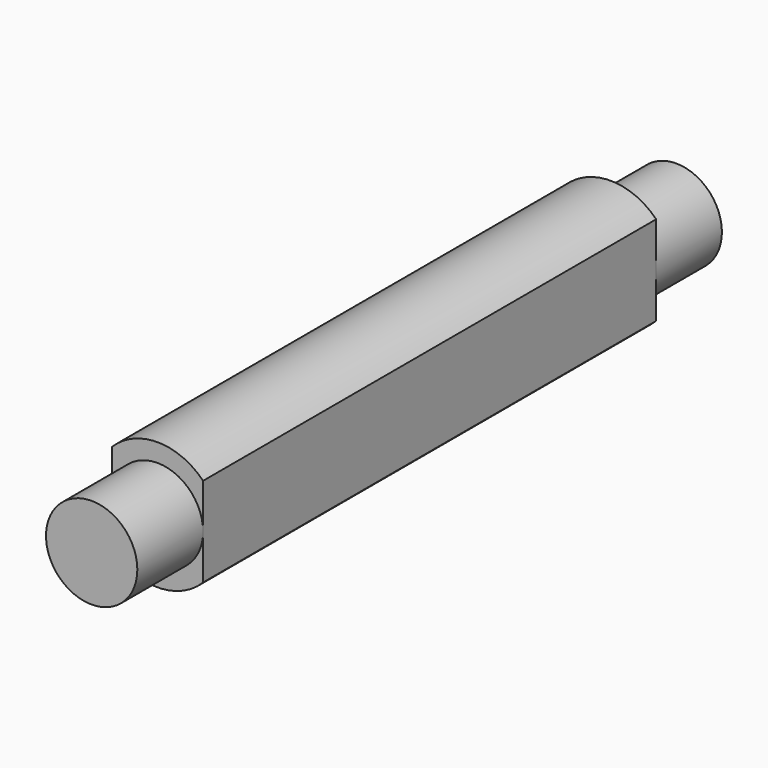
from build123d import *

# Parameters (mm, degrees)
F1_DEPTH = 7.75
F2_R     = 1.25
F3_DEPTH = 10


with BuildPart() as f1:
    # F0 (on Front) → F1 (new body, symmetric)
    with BuildSketch(Plane.XZ):
        with BuildLine():
            Line((-1.25, 1.2247448714), (-1.25, -1.2247448714))
            ThreePointArc((-1.25, -1.2247448714), (0, -1.75), (1.25, -1.2247448714))
            Line((1.25, -1.2247448714), (1.25, 1.2247448714))
            ThreePointArc((1.25, 1.2247448714), (0, 1.75), (-1.25, 1.2247448714))
        make_face()
    extrude(amount=F1_DEPTH, both=True)

    # F2 (on Front) → F3 (join, symmetric)
    with BuildSketch(Plane.XZ):
        Circle(F2_R)
    extrude(amount=F3_DEPTH, both=True)


solid = f1.part
